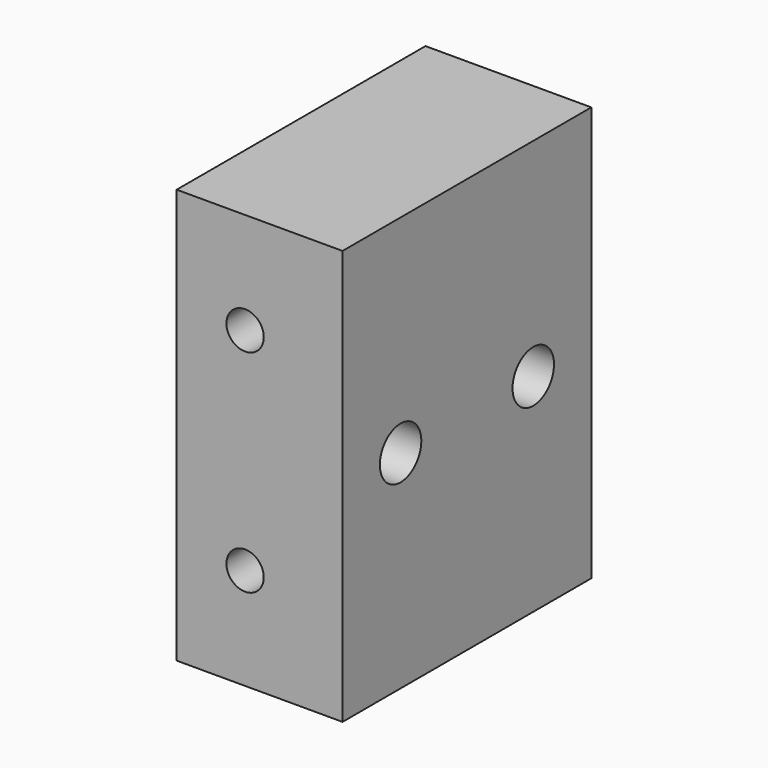
from build123d import *

# Parameters (mm, degrees)
CYLINDER948_R           = 0.9
CYLINDER948_DEPTH       = 15
CYLINDER948_ROLL_ANGLE  = 90
CYLINDER949_R           = 0.9
CYLINDER949_DEPTH       = 15
CYLINDER949_ROLL_ANGLE  = 90
CYLINDER947_R           = 1.25
CYLINDER947_DEPTH       = 10
CYLINDER947_PITCH_ANGLE = 90
CYLINDER946_R           = 1.25
CYLINDER946_DEPTH       = 10
CYLINDER946_PITCH_ANGLE = 90
BOX556_W                = 8
BOX556_H                = 15
BOX556_DEPTH            = 20


with BuildPart() as cylinder1099:
    # Cylinder948 → Cylinder948 (new body)
    with BuildSketch(Plane.XY):
        Circle(CYLINDER948_R)
    extrude(amount=CYLINDER948_DEPTH)


with BuildPart() as cylinder1099_1:
    # Cylinder948 roll: moved
    add(cylinder1099.part.rotate(Axis((0, 0, 0), (1, 0, 0)), CYLINDER948_ROLL_ANGLE))


with BuildPart() as cylinder1099_2:
    # Cylinder948 placement: moved
    add(cylinder1099_1.part.moved(Location((27, 85, -10.2))))


with BuildPart() as fusion595:
    # Cylinder949 → Cylinder949 (new body)
    with BuildSketch(Plane.XY):
        Circle(CYLINDER949_R)
    extrude(amount=CYLINDER949_DEPTH)


with BuildPart() as fusion595_1:
    # Cylinder949 roll: moved
    add(fusion595.part.rotate(Axis((0, 0, 0), (1, 0, 0)), CYLINDER949_ROLL_ANGLE))


with BuildPart() as fusion595_2:
    # Cylinder949 placement: moved
    add(fusion595_1.part.moved(Location((27, 85, 0))))

    # Fusion595: union Cylinder1099
    add(cylinder1099_2.part)


with BuildPart() as fusion595_3:
    # Fusion595 placement: moved
    add(fusion595_2.part.moved(Location((-4.2, 9.5, -5.9))))


with BuildPart() as cylinder1094:
    # Cylinder947 → Cylinder947 (new body)
    with BuildSketch(Plane.XY):
        Circle(CYLINDER947_R)
    extrude(amount=CYLINDER947_DEPTH)


with BuildPart() as cylinder1094_1:
    # Cylinder947 pitch: moved
    add(cylinder1094.part.rotate(Axis((0, 0, 0), (0, 1, 0)), CYLINDER947_PITCH_ANGLE))


with BuildPart() as cylinder1094_2:
    # Cylinder947 placement: moved
    add(cylinder1094_1.part.moved(Location((13.5, 83, -11))))


with BuildPart() as fusion594:
    # Cylinder946 → Cylinder946 (new body)
    with BuildSketch(Plane.XY):
        Circle(CYLINDER946_R)
    extrude(amount=CYLINDER946_DEPTH)


with BuildPart() as fusion594_1:
    # Cylinder946 pitch: moved
    add(fusion594.part.rotate(Axis((0, 0, 0), (0, 1, 0)), CYLINDER946_PITCH_ANGLE))


with BuildPart() as fusion594_2:
    # Cylinder946 placement: moved
    add(fusion594_1.part.moved(Location((13.5, 91, -11))))

    # Fusion594: union Cylinder1094
    add(cylinder1094_2.part)


with BuildPart() as fusion594_3:
    # Fusion594 placement: moved
    add(fusion594_2.part.moved(Location((4, 0, 0))))


with BuildPart() as steering_servo_front_mount:
    # Box556 → Box556 (new body)
    with BuildSketch(Plane(origin=(19.5, 79.5, -21), x_dir=(1, 0, 0), z_dir=(0, 0, 1))):
        with Locations((4, 7.5)):
            Rectangle(BOX556_W, BOX556_H)
    extrude(amount=BOX556_DEPTH)

    # Cut693: cut Fusion594
    add(fusion594_3.part, mode=Mode.SUBTRACT)

    # Cut694: cut Fusion595
    add(fusion595_3.part, mode=Mode.SUBTRACT)


solid = steering_servo_front_mount.part
